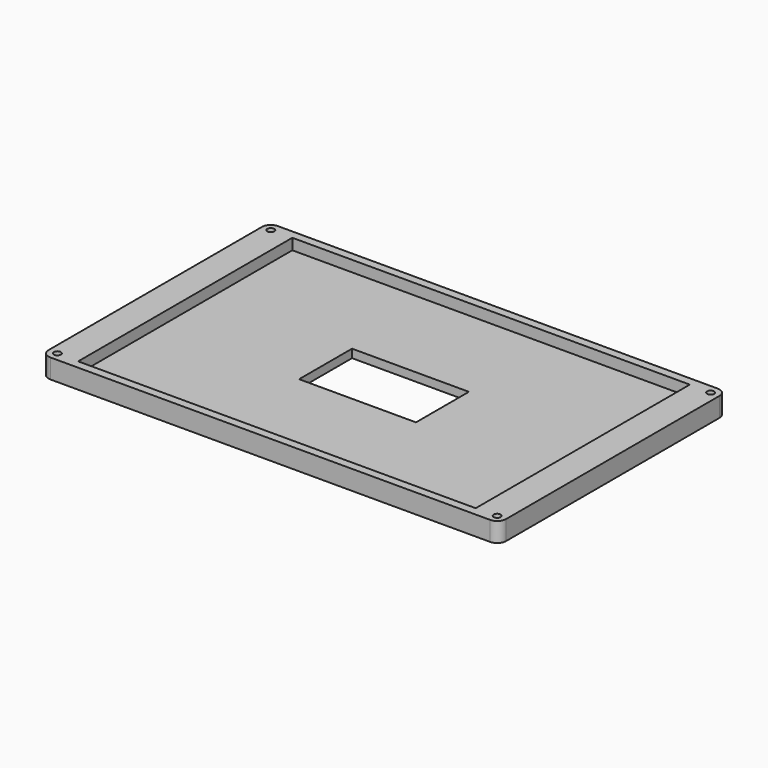
from build123d import *

# Parameters (mm, degrees)
F0_W      = 103.75
F0_H      = 64.5
F1_DEPTH  = 2.2
F2_T      = -1.9
F3_W      = 26.5
F3_H      = 15
F4_DEPTH  = 12.7
F5_R      = 2
F6_R      = 2
F7_W      = 4.9
F7_H      = 60.7
F8_DEPTH  = 2.5
F9_W      = 4.9
F9_H      = 60.7
F10_DEPTH = 2.5
F11_R     = 0.8
F12_DEPTH = 25.4
F13_R     = 0.8
F14_DEPTH = 25.4
F15_R     = 0.8
F16_DEPTH = 25.4
F17_R     = 0.8
F18_DEPTH = 25.4


with BuildPart() as f1:
    # F0 (on Top) → F1 (new body, symmetric)
    with BuildSketch(Plane.XY):
        Rectangle(F0_W, F0_H)
    extrude(amount=F1_DEPTH, both=True)

    # F2
    f2_openings = [f1.faces().sort_by_distance(p)[0] for p in [
        (0, 0, 2.2),
    ]]
    offset(amount=F2_T, openings=f2_openings)

    # F3 (on Top) → F4 (cut, symmetric)
    with BuildSketch(Plane.XY):
        Rectangle(F3_W, F3_H)
    extrude(amount=F4_DEPTH, both=True, mode=Mode.SUBTRACT)

    # F5
    f5_edges = [f1.edges().sort_by_distance(p)[0] for p in [
        (-51.875, 32.25, 0),
    ]]
    fillet(f5_edges, radius=F5_R)

    # F6
    f6_edges = [f1.edges().sort_by_distance(p)[0] for p in [
        (-51.875, -32.25, 0),
        (51.875, -32.25, 0),
        (51.875, 32.25, 0),
    ]]
    fillet(f6_edges, radius=F6_R)

    # F7 (on face) → F8 (join)
    with BuildSketch(Plane.XY.offset(-0.3)):
        with Locations((-47.525, 0)):
            Rectangle(F7_W, F7_H)
    extrude(amount=F8_DEPTH)

    # F9 (on face) → F10 (join)
    with BuildSketch(Plane.XY.offset(-0.3)):
        with Locations((47.525, 0)):
            Rectangle(F9_W, F9_H)
    extrude(amount=F10_DEPTH)

    # F11 (on face) → F12 (cut)
    with BuildSketch(Plane.XY.offset(2.2)):
        with Locations((49.875, -30.25)):
            Circle(F11_R)
    extrude(amount=-F12_DEPTH, mode=Mode.SUBTRACT)

    # F13 (on face) → F14 (cut)
    with BuildSketch(Plane.XY.offset(2.2)):
        with Locations((49.875, 30.25)):
            Circle(F13_R)
    extrude(amount=-F14_DEPTH, mode=Mode.SUBTRACT)

    # F15 (on face) → F16 (cut)
    with BuildSketch(Plane.XY.offset(2.2)):
        with Locations((-49.875, -30.25)):
            Circle(F15_R)
    extrude(amount=-F16_DEPTH, mode=Mode.SUBTRACT)

    # F17 (on face) → F18 (cut)
    with BuildSketch(Plane.XY.offset(2.2)):
        with Locations((-49.875, 30.25)):
            Circle(F17_R)
    extrude(amount=-F18_DEPTH, mode=Mode.SUBTRACT)


solid = f1.part
